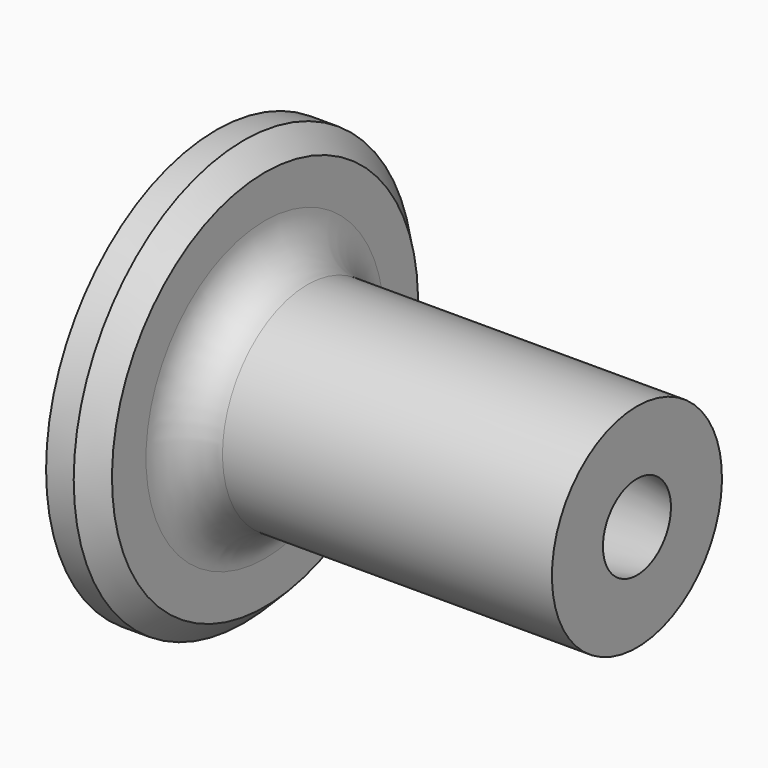
from build123d import *

# Parameters (mm, degrees)
F2_R      = 2
F3_SIZE   = 1
F1_FACE_R = 2.881635
F4_DEPTH  = 25


with BuildPart() as f1:
    # F0 (on Front) → F1 (revolve)
    with BuildSketch(Plane.XZ):
        Polygon((0, 10), (0, 0), (2.3, 0), (2.3, 5), (2.3, 10), align=None)
        Polygon((2.3, 5), (2.3, 0), (14.8, 0), (14.8, 2.881635), (19.8, 2), (19.8, 5), align=None)
    revolve(axis=Axis((11.05, 0, 0), (1, 0, 0)))

    # F2
    f2_edges = [f1.edges().sort_by_distance(p)[0] for p in [
        (2.3, 0, -5),
    ]]
    fillet(f2_edges, radius=F2_R)

    # F3
    f3_edges = [f1.edges().sort_by_distance(p)[0] for p in [
        (2.3, 0, -10),
    ]]
    chamfer(f3_edges, length=F3_SIZE)

    # F1_face (on face) → F4 (cut)
    with BuildSketch(Plane.YZ.offset(14.8)):
        Circle(F1_FACE_R)
    extrude(amount=-F4_DEPTH, mode=Mode.SUBTRACT)


solid = f1.part
